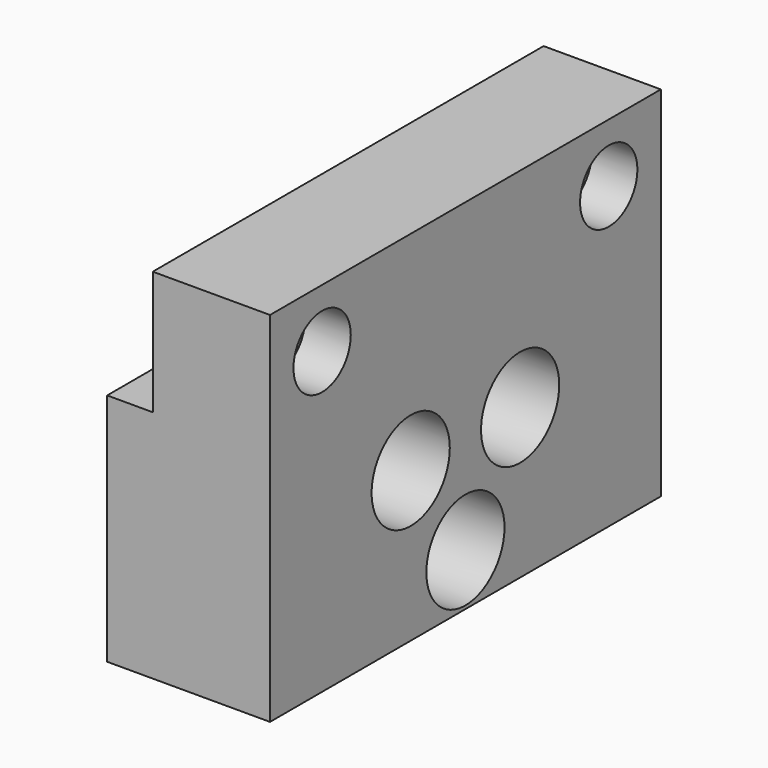
from build123d import *

# Parameters (mm, degrees)
F1_DEPTH       = 37.5
F3_D           = 8.4
F3_CBORE_D     = 15
F3_CBORE_DEPTH = 10
F4_D           = 6.4
F4_CBORE_D     = 11
F4_CBORE_DEPTH = 7


with BuildPart() as f1:
    # F0 (on Front) → F1 (new body, symmetric)
    with BuildSketch(Plane.XZ):
        Polygon((0, 19), (0, 0), (-7, 0), (-7, -36), (18, -36), (18, 19), align=None)
    extrude(amount=F1_DEPTH, both=True)

    # F3 (through all)
    with Locations(Plane.YZ.offset(18)):
        with Locations((-10.5, -13), (10.5, -13), (0, -28)):
            CounterBoreHole(F3_D / 2, F3_CBORE_D / 2, F3_CBORE_DEPTH)

    # F4 (through all)
    with Locations(Plane.YZ.offset(18)):
        with Locations((-27.5, 10), (27.5, 10)):
            CounterBoreHole(F4_D / 2, F4_CBORE_D / 2, F4_CBORE_DEPTH)


solid = f1.part
